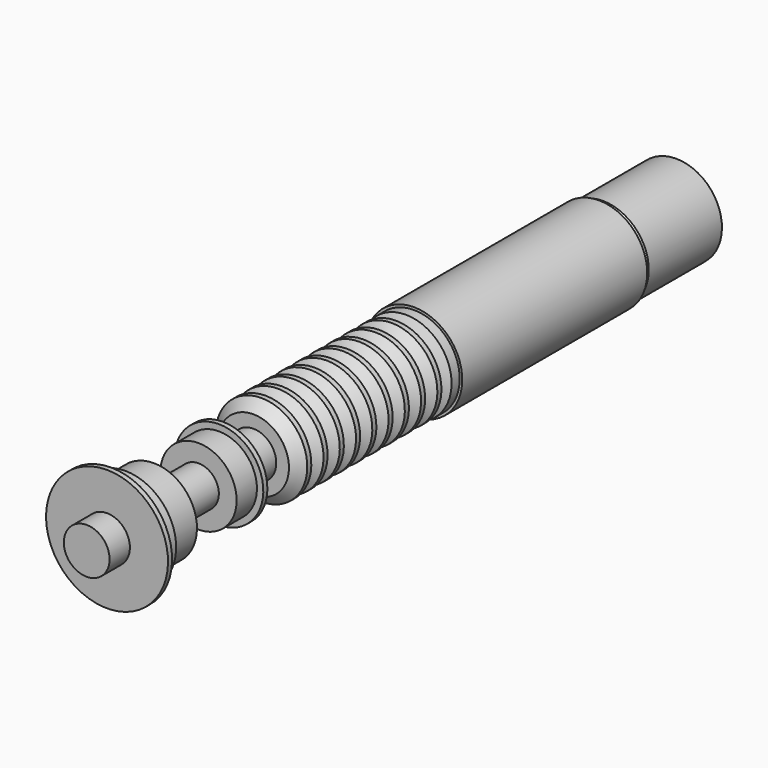
from build123d import *

# Parameters (mm, degrees)
F0_W   = 10
F0_H   = 9
F0_W_2 = 17
F0_H_2 = 8
F0_W_3 = 13
F0_W_4 = 3
F0_H_3 = 19
F0_W_5 = 8
F0_H_4 = 18
F0_W_6 = 20


with BuildPart() as f1:
    # F0 (on Right) → F1 (revolve)
    with BuildSketch(Plane.YZ):
        with Locations((5, 4.5)):
            Rectangle(F0_W, F0_H)
        Polygon((10, 9), (10, 0), (12, 0), (12, 20), (12, 24), (10, 24), align=None)
        Polygon((12, 20), (12, 0), (19, 0), (19, 17), (19, 20), align=None)
        Polygon((19, 17), (19, 0), (33, 0), (33, 11), (33, 17), align=None)
        Polygon((33, 11), (33, 0), (38, 0), (38, 8), (38, 11), align=None)
        with Locations((46.5, 4)):
            Rectangle(F0_W_2, F0_H_2)
        Polygon((55, 8), (55, 0), (65, 0), (65, 15), (55, 15), align=None)
        Polygon((65, 15), (65, 0), (67, 0), (67, 11), (67, 17.5), (65, 17.5), align=None)
        Polygon((67, 11), (67, 0), (69, 0), (69, 9), (69, 11), align=None)
        with Locations((75.5, 4.5)):
            Rectangle(F0_W_3, F0_H)
        Polygon((82, 9), (82, 0), (91, 0), (91, 14), (88, 18), (86, 18), (82, 14), align=None)
        Polygon((91, 14), (91, 0), (99, 0), (99, 14), (96, 18), (94, 18), align=None)
        Polygon((99, 14), (99, 0), (107, 0), (107, 14), (104, 18), (102, 18), align=None)
        Polygon((107, 14), (107, 0), (115, 0), (115, 14), (112, 18), (110, 18), align=None)
        Polygon((115, 14), (115, 0), (123, 0), (123, 14), (120, 18), (118, 18), align=None)
        Polygon((123, 14), (123, 0), (131, 0), (131, 14), (128, 18), (126, 18), align=None)
        Polygon((131, 14), (131, 0), (139, 0), (139, 14), (136, 18), (134, 18), align=None)
        Polygon((139, 14), (139, 0), (147, 0), (147, 14), (144, 18), (142, 18), align=None)
        Polygon((147, 14), (147, 0), (155, 0), (155, 14), (152, 18), (150, 18), align=None)
        Polygon((155, 14), (155, 0), (161, 0), (161, 18), (157, 18), align=None)
        Polygon((161, 18), (161, 0), (215, 0), (215, 19), (161, 19), align=None)
        with Locations((216.5, 9.5)):
            Rectangle(F0_W_4, F0_H_3)
        Polygon((218, 19), (218, 0), (252, 0), (252, 17), (252, 19), align=None)
        Polygon((252, 17), (252, 0), (254, 0), (254, 18), align=None)
        with Locations((258, 9)):
            Rectangle(F0_W_5, F0_H_4)
        with Locations((272, 9)):
            Rectangle(F0_W_6, F0_H_4)
        with Locations((286, 9)):
            Rectangle(F0_W_5, F0_H_4)
    revolve(axis=Axis((0, -1.024425, 0), (0, -1, 0)))


solid = f1.part
